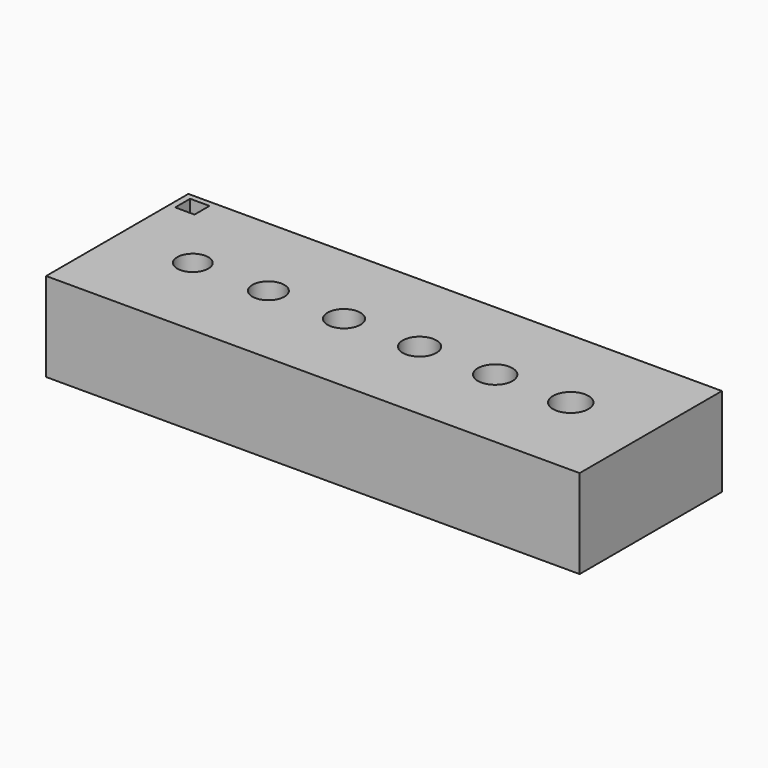
from build123d import *

# Parameters (mm, degrees)
F0_W     = 60
F0_H     = 20
F0_R     = 1.75
F0_R_2   = 1.8
F0_R_3   = 1.85
F0_R_4   = 1.9
F0_R_5   = 1.95
F0_R_6   = 2
F0_W_2   = 2.181272
F0_H_2   = 2.106054
F1_DEPTH = 10


with BuildPart() as f1:
    # F0 (on Top) → F1 (new body)
    with BuildSketch(Plane.XY):
        with Locations((15.278291, -10.103558)):
            Rectangle(F0_W, F0_H)
        with Locations((-6.221709, -10.103558)):
            Circle(F0_R, mode=Mode.SUBTRACT)
        with Locations((2.278291, -10.103558)):
            Circle(F0_R_2, mode=Mode.SUBTRACT)
        with Locations((10.778291, -10.103558)):
            Circle(F0_R_3, mode=Mode.SUBTRACT)
        with Locations((19.278291, -10.103558)):
            Circle(F0_R_4, mode=Mode.SUBTRACT)
        with Locations((27.778291, -10.103558)):
            Circle(F0_R_5, mode=Mode.SUBTRACT)
        with Locations((36.278291, -10.103558)):
            Circle(F0_R_6, mode=Mode.SUBTRACT)
        with Locations((-12.932548, -1.785417)):
            Rectangle(F0_W_2, F0_H_2, mode=Mode.SUBTRACT)
    extrude(amount=F1_DEPTH)


solid = f1.part
